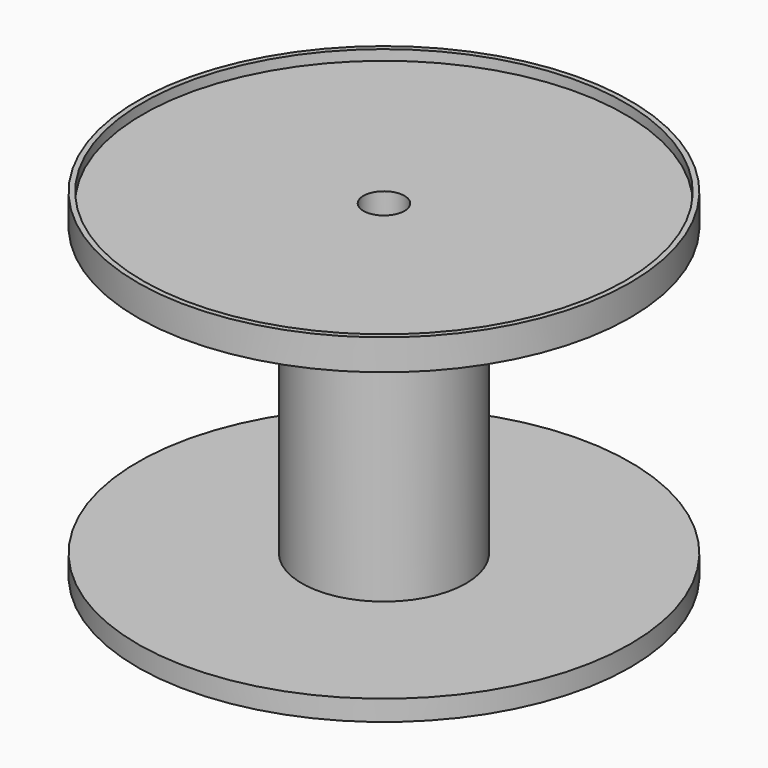
from build123d import *

# Parameters (mm, degrees)
F0_R     = 152.4
F1_DEPTH = 12.7
F2_R     = 50.8
F3_DEPTH = 177.8
F4_R     = 152.4
F4_R_2   = 50.8
F5_DEPTH = 12.7
F6_R     = 152.4
F6_R_2   = 149.225
F7_DEPTH = 6.35
F8_R     = 12.7
F9_DEPTH = 457.2


with BuildPart() as f1:
    # F0 (on Top) → F1 (new body)
    with BuildSketch(Plane.XY):
        Circle(F0_R)
    extrude(amount=F1_DEPTH)

    # F2 (on face) → F3 (join)
    with BuildSketch(Plane.XY.offset(12.7)):
        Circle(F2_R)
    extrude(amount=F3_DEPTH)

    # F4 (on face) → F5 (join)
    with BuildSketch(Plane.XY.offset(190.5)):
        Circle(F4_R)
        Circle(F4_R_2, mode=Mode.SUBTRACT)
        Circle(F4_R_2)
    extrude(amount=F5_DEPTH)

    # F6 (on face) → F7 (join)
    with BuildSketch(Plane.XY.offset(203.2)):
        Circle(F6_R)
        Circle(F6_R_2, mode=Mode.SUBTRACT)
    extrude(amount=F7_DEPTH)

    # F8 (on face) → F9 (cut)
    with BuildSketch(Plane.XY.offset(203.2)):
        Circle(F8_R)
    extrude(amount=-F9_DEPTH, mode=Mode.SUBTRACT)


solid = f1.part
